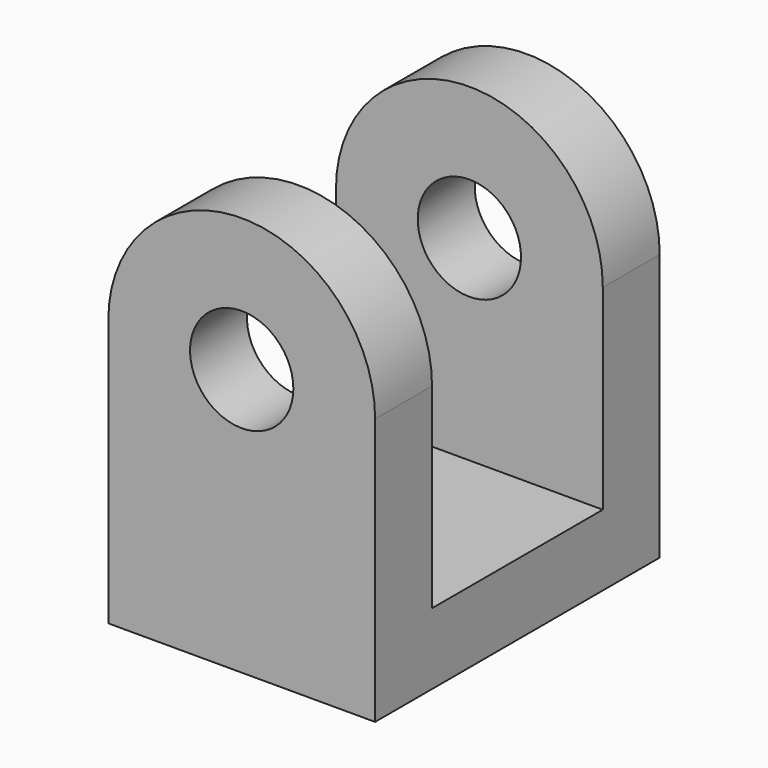
from build123d import *

# Parameters (mm, degrees)
F1_DEPTH      = 25.4
F2_W          = 15.24
F2_H          = 27.5789452819
F3_DEPTH      = 9.526
F3_DEPTH_BACK = 9.526


with BuildPart() as f1:
    # F0 (on Front) → F1 (new body)
    with BuildSketch(Plane.XZ):
        with BuildLine():
            Line((3.6874021567, 9.525), (9.525, 9.525))
            ThreePointArc((9.525, 9.525), (0, 19.05), (-9.525, 9.525))
            Line((-9.525, 9.525), (-3.6874021567, 9.525))
            ThreePointArc((-3.6874021567, 9.525), (0, 13.2124021567), (3.6874021567, 9.525))
        make_face()
        with BuildLine():
            Line((9.525, -9.525), (9.525, 9.525))
            ThreePointArc((9.525, 9.525), (0, 0), (-9.525, 9.525))
            Line((-9.525, 9.525), (-9.525, -9.525))
            Line((-9.525, -9.525), (9.525, -9.525))
        make_face()
        with BuildLine():
            ThreePointArc((-9.525, 9.525), (0, 0), (9.525, 9.525))
            Line((9.525, 9.525), (3.6874021567, 9.525))
            ThreePointArc((3.6874021567, 9.525), (0, 5.8375978433), (-3.6874021567, 9.525))
            Line((-3.6874021567, 9.525), (-9.525, 9.525))
        make_face()
    extrude(amount=F1_DEPTH)

    # F2 (on Right) → F3 (cut, two sides)
    with BuildSketch(Plane.YZ) as f3_sk:
        with Locations((-12.7, 9.344472641)):
            Rectangle(F2_W, F2_H)
    extrude(amount=F3_DEPTH, mode=Mode.SUBTRACT)
    extrude(f3_sk.sketch, amount=-F3_DEPTH_BACK, mode=Mode.SUBTRACT)


solid = f1.part
